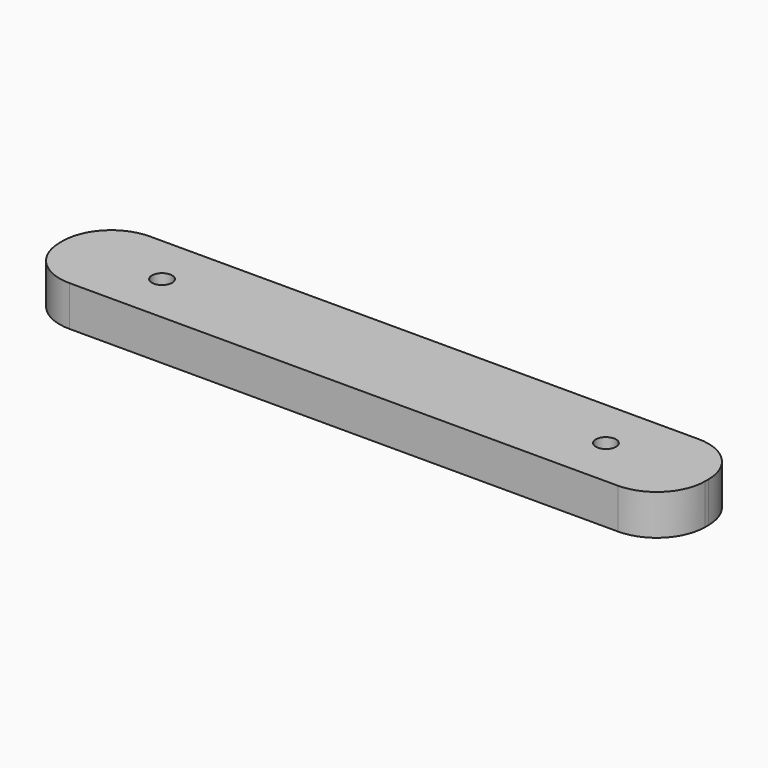
from build123d import *

# Parameters (mm, degrees)
F0_W     = 101.6
F0_H     = 15.875
F1_DEPTH = 6.35
F2_R     = 7.62
F3_R     = 1.5875
F4_DEPTH = 25.4


with BuildPart() as f1:
    # F0 (on Top) → F1 (new body)
    with BuildSketch(Plane.XY):
        Rectangle(F0_W, F0_H)
    extrude(amount=F1_DEPTH)

    # F2
    f2_edges = [f1.edges().sort_by_distance(p)[0] for p in [
        (-50.8, 7.9375, 3.175),
        (-50.8, -7.9375, 3.175),
        (50.8, 7.9375, 3.175),
        (50.8, -7.9375, 3.175),
    ]]
    fillet(f2_edges, radius=F2_R)

    # F3 (on face) → F4 (cut)
    with BuildSketch(Plane.XY.offset(6.35)):
        with Locations((-34.925, 0)):
            Circle(F3_R)
        with Locations((34.925, 0)):
            Circle(F3_R)
    extrude(amount=-F4_DEPTH, mode=Mode.SUBTRACT)


solid = f1.part
